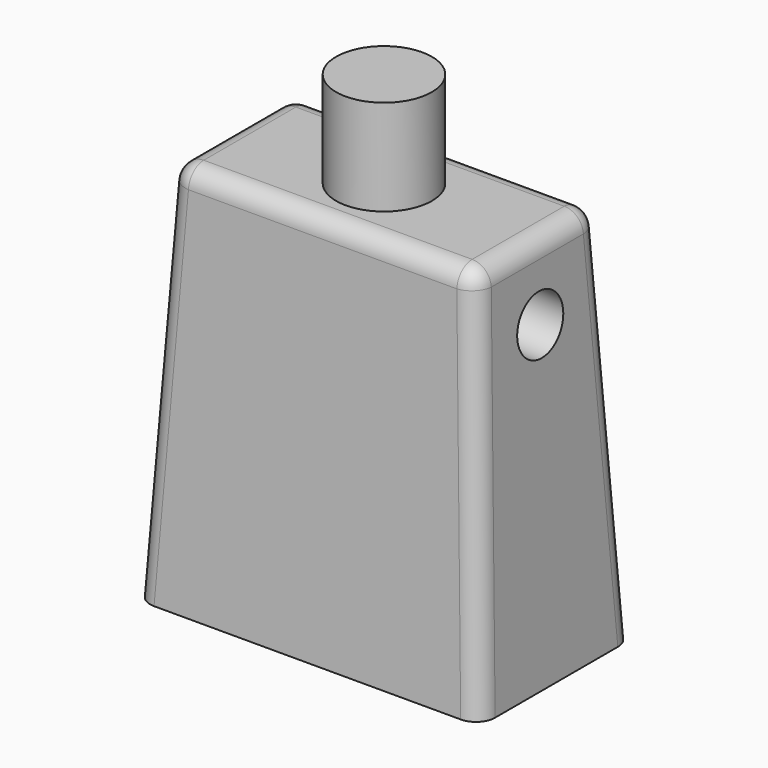
from build123d import *

# Parameters (mm, degrees)
F0_W     = 18
F0_H     = 10
F1_DEPTH = 20
F1_TAPER = 3
F2_R     = 2.5
F3_DEPTH = 5
F5_R     = 1
F4_R     = 1.5
F6_DEPTH = 25.4


with BuildPart() as f1:
    # F0 (on Top) → F1 (new body)
    with BuildSketch(Plane.XY):
        Rectangle(F0_W, F0_H)
    extrude(amount=F1_DEPTH, taper=F1_TAPER)

    # F2 (on face) → F3 (join)
    with BuildSketch(Plane.XY.offset(20)):
        Circle(F2_R)
    extrude(amount=F3_DEPTH)

    # F5
    f5_edges = [f1.edges().sort_by_distance(p)[0] for p in [
        (8.475922, 4.475922, 10),
        (0, 3.951844, 20),
        (-8.475922, 4.475922, 10),
        (-7.951844, 0, 20),
        (-8.475922, -4.475922, 10),
        (8.475922, -4.475922, 10),
        (0, -3.951844, 20),
        (7.951844, 0, 20),
    ]]
    fillet(f5_edges, radius=F5_R)

    # F4 (on face) → F6 (cut)
    with BuildSketch(Plane(origin=(-8.9753485292, 0, 0.4703780847), x_dir=(0, -1, 0), z_dir=(-0.9986295348, 0, 0.0523359562))):
        with Locations((0, 16.5564233138)):
            Circle(F4_R)
    extrude(amount=-F6_DEPTH, mode=Mode.SUBTRACT)


solid = f1.part
